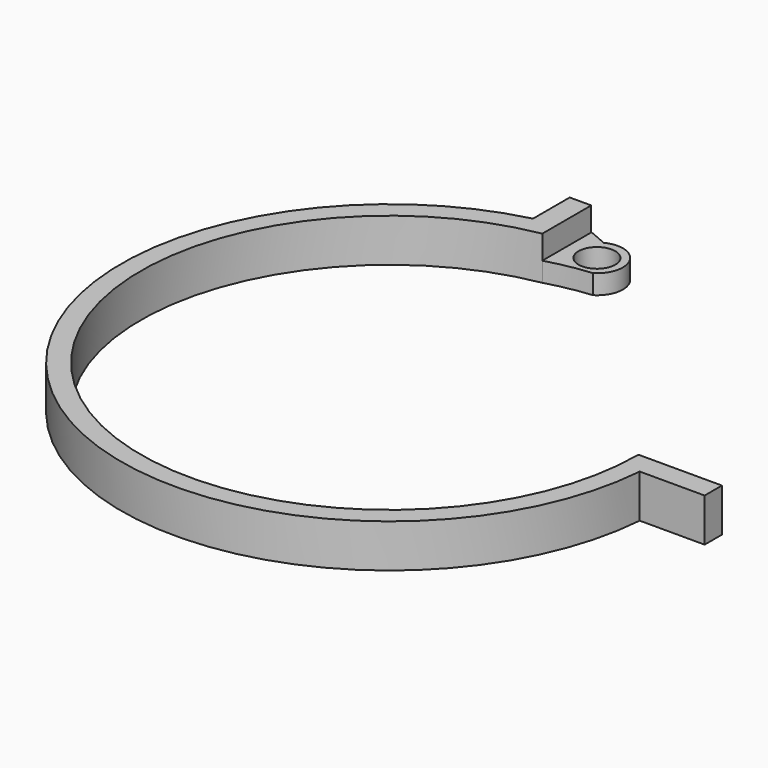
from build123d import *

# Parameters (mm, degrees)
SKETCH_R        = 4.25
PAD_DEPTH       = 10
POCKET_DEPTH    = 5.5
POCKET001_DEPTH = 5


with BuildPart() as part:
    # Sketch → Pad (new body)
    with BuildSketch(Plane.XY):
        with BuildLine():
            ThreePointArc((-9.98477, 56.626446), (-36.960288, -44.047555), (57.5, 0))
            Line((57.5, 0), (76.798058, 0))
            Line((76.798058, 0), (76.798058, -5))
            Line((76.798058, -5), (61.798058, -5))
            ThreePointArc((-14.984756, 60.161924), (-40.117208, -47.271657), (61.798058, -5))
            Line((-14.984756, 60.161924), (-14.984756, 70.757167))
            Line((-14.984756, 70.757167), (5.015244, 70.757167))
            Line((5.015244, 70.757167), (5.015244, 58.757167))
            ThreePointArc((5.015244, 58.757167), (-2.560203, 58.222895), (-9.98477, 56.626446))
        make_face()
        with Locations((-2.984756, 63.626448)):
            Circle(SKETCH_R, mode=Mode.SUBTRACT)
    extrude(amount=PAD_DEPTH)

    # Sketch001 (on Face12 of Pad) → Pocket (cut)
    with BuildSketch(Plane.XY.offset(10)):
        with BuildLine():
            ThreePointArc((5.1, 58.499907), (-2.531657, 57.967199), (-10.00931, 56.351442))
            Line((-10.00931, 56.351442), (-10.00931, 70.999907))
            Line((-10.00931, 70.999907), (5.1, 70.999907))
            Line((5.1, 70.999907), (5.1, 58.499907))
        make_face()
    extrude(amount=-POCKET_DEPTH, mode=Mode.SUBTRACT)

    # Sketch002 (on Face6 of Pocket) → Pocket001 (cut)
    with BuildSketch(Plane.XY.offset(4.5)):
        with BuildLine():
            ThreePointArc((-1, 57.993146), (2.515586, 66.011846), (-5.713792, 69.001199))
            Line((-5.713792, 69.001199), (-11.5, 71.493146))
            Line((-11.5, 71.493146), (6, 71.493146))
            Line((6, 71.493146), (6, 57.993146))
            Line((6, 57.993146), (-1, 57.993146))
        make_face()
    extrude(amount=-POCKET001_DEPTH, mode=Mode.SUBTRACT)


solid = part.part
